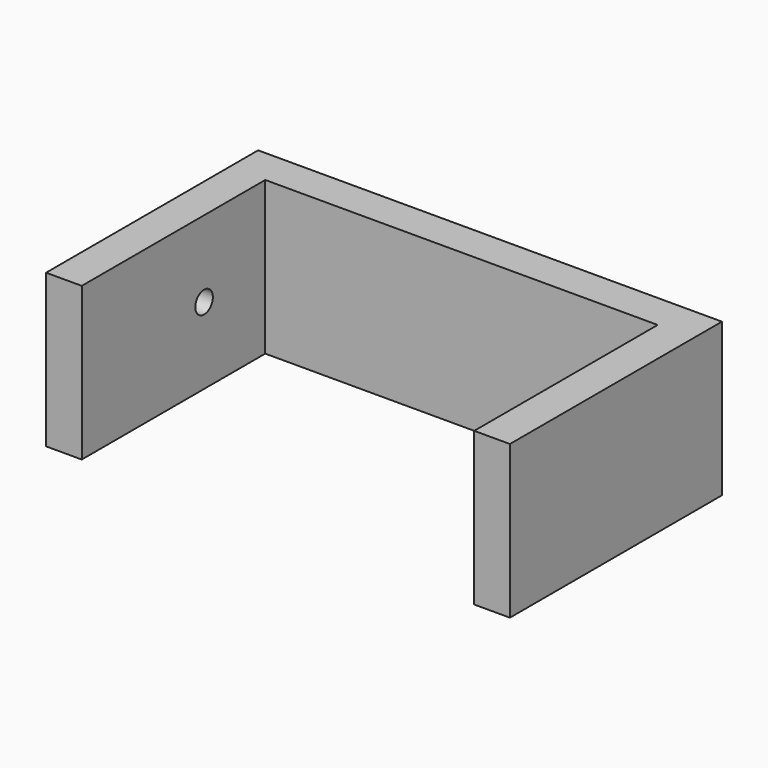
from build123d import *

# Parameters (mm, degrees)
F1_DEPTH = 30
F3_D     = 4.3
F3_DEPTH = 10


with BuildPart() as f1:
    # F0 (on Top) → F1 (new body)
    with BuildSketch(Plane.XY):
        Polygon((45.5, 26), (-45.5, 26), (-45.5, -26), (-38.5, -26), (-38.5, 19), (38.5, 19), (38.5, -26), (45.5, -26), align=None)
    extrude(amount=F1_DEPTH)

    # F3
    with Locations(Plane(origin=(-45.5, 0, 0), x_dir=(0, -1, 0), z_dir=(-1, 0, 0))):
        with Locations((-4, 15)):
            Hole(F3_D / 2, depth=F3_DEPTH)


solid = f1.part
